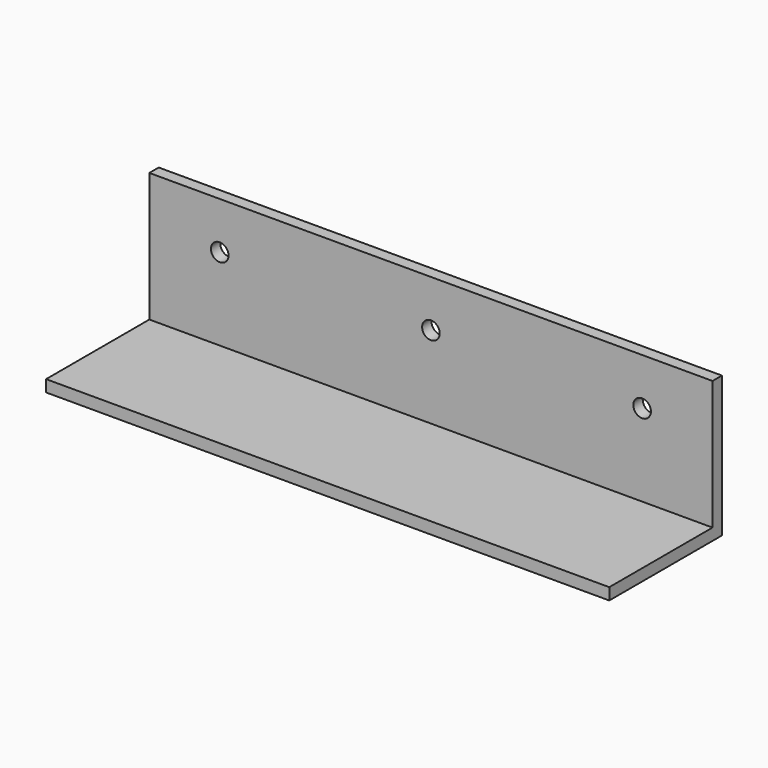
from build123d import *

# Parameters (mm, degrees)
F1_DEPTH = 152.4
F3_D     = 4.7625


with BuildPart() as f1:
    # F0 (on Right) → F1 (new body)
    with BuildSketch(Plane.YZ):
        Polygon((-38.1, 0), (0, 0), (0, 38.1), (-3.175, 38.1), (-3.175, 3.175), (-38.1, 3.175), align=None)
    extrude(amount=F1_DEPTH)

    # F3 (through all)
    with Locations(Plane.XZ.offset(3.175)):
        with Locations((19.05, 25.4), (76.2, 25.4), (133.35, 25.4)):
            Hole(F3_D / 2)


solid = f1.part
